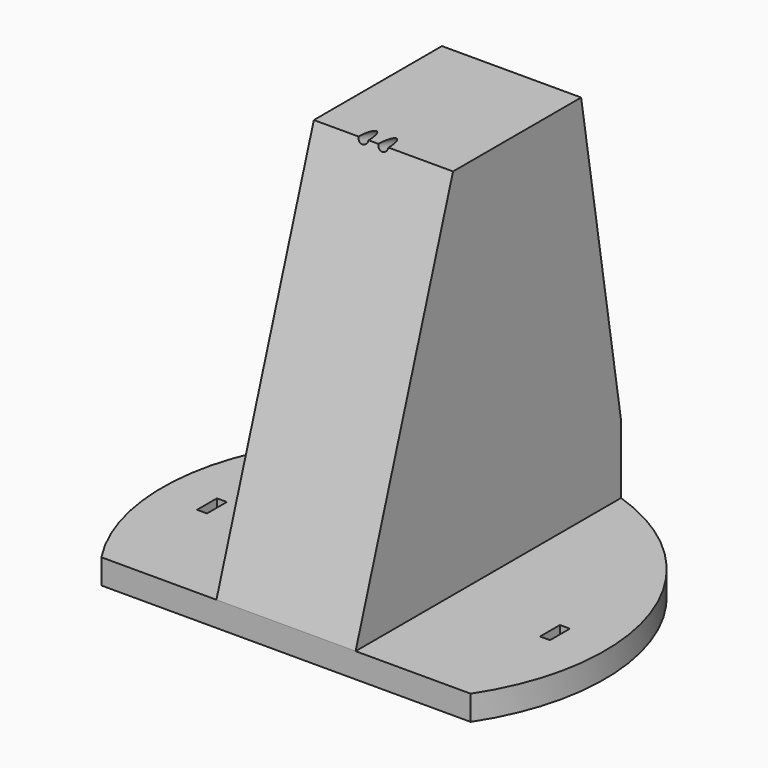
from build123d import *

# Parameters (mm, degrees)
F1_DEPTH = 5
F3_DEPTH = 75
F5_DEPTH = 58.501
F7_DEPTH = 5.001
F8_R     = 1
F9_DEPTH = 67.142736129


with BuildPart() as f1:
    # F0 (on Top) → F1 (new body)
    with BuildSketch(Plane.XY):
        with BuildLine():
            ThreePointArc((37.148351242, -24.5), (0, 44.5), (-37.148351242, -24.5))
            Line((-37.148351242, -24.5), (37.148351242, -24.5))
        make_face()
    extrude(amount=F1_DEPTH)

    # F2 (on face) → F3 (join)
    with BuildSketch(Plane.XY.offset(5)):
        with BuildLine():
            Line((-14, -24.5), (0, -24.5))
            Line((0, -24.5), (14, -24.5))
            Line((14, -24.5), (14, 42.240383521))
            ThreePointArc((14, 42.240383521), (0, 44.5), (-14, 42.240383521))
            Line((-14, 42.240383521), (-14, -24.5))
        make_face()
    extrude(amount=F3_DEPTH)

    # F4 (on face) → F5 (cut, through all)
    with BuildSketch(Plane.YZ.offset(14)):
        Polygon((-24.5, 5), (0, 80), (0, 88), (-35, 88), (-35, 5), align=None)
        Polygon((57.2117942726, 88), (32.2117942726, 88), (32.2117942726, 80), (44.5, 5), (57.2117942726, 5), align=None)
    extrude(amount=-F5_DEPTH, mode=Mode.SUBTRACT)

    # F6 (on face) → F7 (cut, through all)
    with BuildSketch(Plane.XY.offset(5)):
        Polygon((-33.5, -2.5), (-33.5, 0), (-33.5, 2.5), (-35.5, 2.5), (-35.5, -2.5), align=None)
        Polygon((35.5, 2.5), (33.5, 2.5), (33.5, 0), (33.5, -2.5), (35.5, -2.5), align=None)
    extrude(amount=-F7_DEPTH, mode=Mode.SUBTRACT)

    # F8 (on face) → F9 (cut, through all)
    with BuildSketch(Plane(origin=(0, -23.6135094976, 7.7137464359), x_dir=(1, 0, 0), z_dir=(0, -0.9505672883, 0.3105186475))):
        with Locations((0, 76.0453830625)):
            Circle(F8_R)
        with Locations((-4, 76.0453830625)):
            Circle(F8_R)
    extrude(amount=-F9_DEPTH, mode=Mode.SUBTRACT)


solid = f1.part
